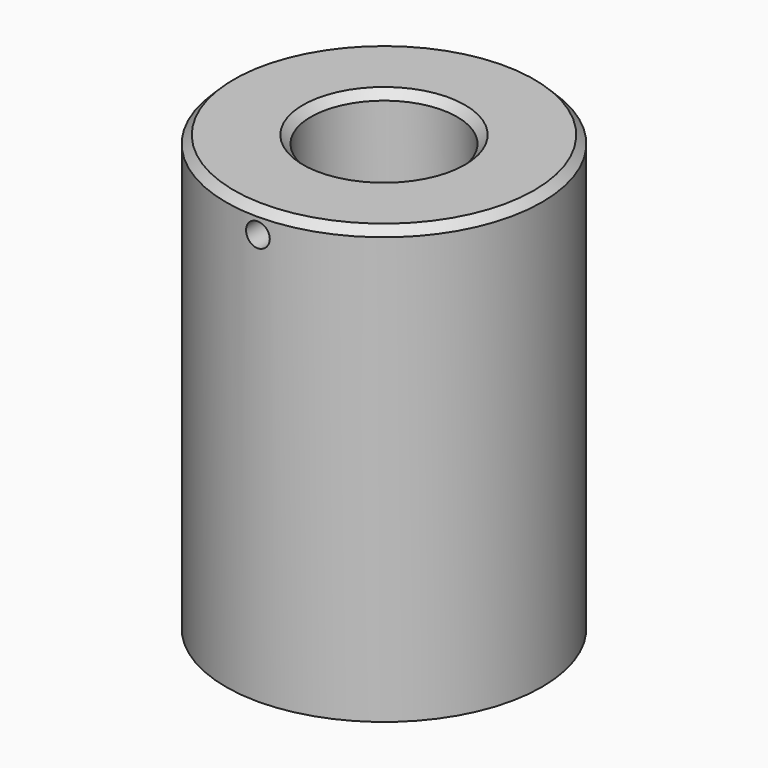
from build123d import *

# Parameters (mm, degrees)
F0_R      = 20
F0_R_2    = 5
F1_DEPTH  = 55
F2_R      = 9.25
F3_DEPTH  = 12
F4_R      = 6.25
F5_DEPTH  = 13
F6_SIZE   = 1
F7_R      = 1.5
F8_DEPTH  = 20.001
F9_SIZE   = 2
F10_R     = 1.5
F11_DEPTH = 10


with BuildPart() as f1:
    # F0 (on Top) → F1 (new body)
    with BuildSketch(Plane.XY):
        Circle(F0_R)
        Circle(F0_R_2, mode=Mode.SUBTRACT)
    extrude(amount=F1_DEPTH)

    # F2 (on face) → F3 (cut)
    with BuildSketch(Plane.XY.offset(55)):
        Circle(F2_R)
    extrude(amount=-F3_DEPTH, mode=Mode.SUBTRACT)

    # F4 (on face) → F5 (cut)
    with BuildSketch(Plane.XY.offset(43)):
        Circle(F4_R)
    extrude(amount=-F5_DEPTH, mode=Mode.SUBTRACT)

    # F6
    f6_edges = [f1.edges().sort_by_distance(p)[0] for p in [
        (-9.25, 0, 55),
        (-20, 0, 55),
    ]]
    chamfer(f6_edges, length=F6_SIZE)

    # F7 (on Front) → F8 (cut, through all)
    with BuildSketch(Plane.XZ):
        with Locations((0, 52)):
            Circle(F7_R)
    extrude(amount=F8_DEPTH, mode=Mode.SUBTRACT)

    # F9
    f9_edges = [f1.edges().sort_by_distance(p)[0] for p in [
        (-5, 0, 0),
    ]]
    chamfer(f9_edges, length=F9_SIZE)

    # F10 (on face) → F11 (cut)
    with BuildSketch(Plane(origin=(0, 0, 0), x_dir=(1, 0, 0), z_dir=(0, 0, -1))):
        with Locations((-16, 0)):
            Circle(F10_R)
        with Locations((0, 16)):
            Circle(F10_R)
        with Locations((16, 0)):
            Circle(F10_R)
        with Locations((0, -16)):
            Circle(F10_R)
    extrude(amount=-F11_DEPTH, mode=Mode.SUBTRACT)


solid = f1.part
